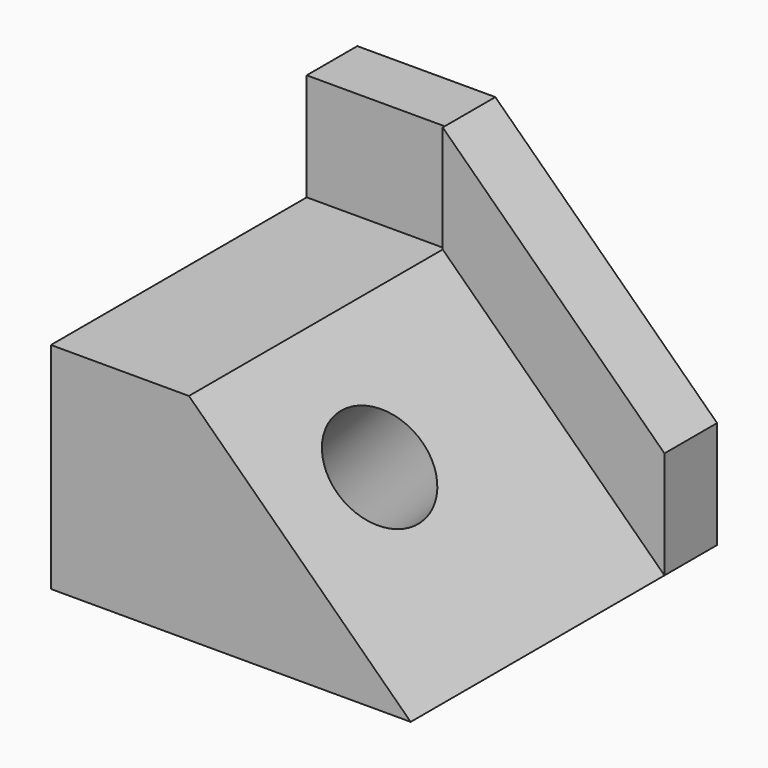
from build123d import *

# Parameters (mm, degrees)
F0_W     = 85.0682780147
F0_H     = 90.5551686883
F1_DEPTH = 50.8
F3_DEPTH = 90.5561686883
F5_D     = 25.4
F7_W     = 32.6359942555
F7_H     = 14.9547737092
F6_W     = 73.0053722694
F6_H     = 15.5514590442
F8_DEPTH = 25.4


with BuildPart() as f1:
    # F0 (on Top) → F1 (new body)
    with BuildSketch(Plane.XY):
        Rectangle(F0_W, F0_H)
    extrude(amount=F1_DEPTH)

    # F2 (on face) → F3 (cut, through all)
    with BuildSketch(Plane.XZ.offset(45.2775843441)):
        Polygon((42.5341390073, 0), (42.5341390073, 50.8), (-9.8981447518, 50.8), align=None)
    extrude(amount=-F3_DEPTH, mode=Mode.SUBTRACT)

    # F5 (through all)
    with Locations(Plane(origin=(20.594698145, 0, 21.2564381313), x_dir=(0.7181976083, 0, -0.6958392023), z_dir=(0.6958392023, 0, 0.7181976083))):
        with Locations((-13.2798599079, -15.1163674891)):
            Hole(F5_D / 2)

    # F7 (on face) + F6 (on face) → F8 (join)
    with BuildSketch(Plane.XY.offset(50.8)):
        with Locations((-26.2161418796, 37.8001974896)):
            Rectangle(F7_W, F7_H)
    with BuildSketch(Plane(origin=(20.594698145, 0, 21.2564381313), x_dir=(0.7181976083, 0, -0.6958392023), z_dir=(0.6958392023, 0, 0.7181976083))):
        with Locations((-5.9547692273, 37.501854822)):
            Rectangle(F6_W, F6_H)
    extrude(amount=F8_DEPTH, dir=(0, 0, 1))


solid = f1.part
